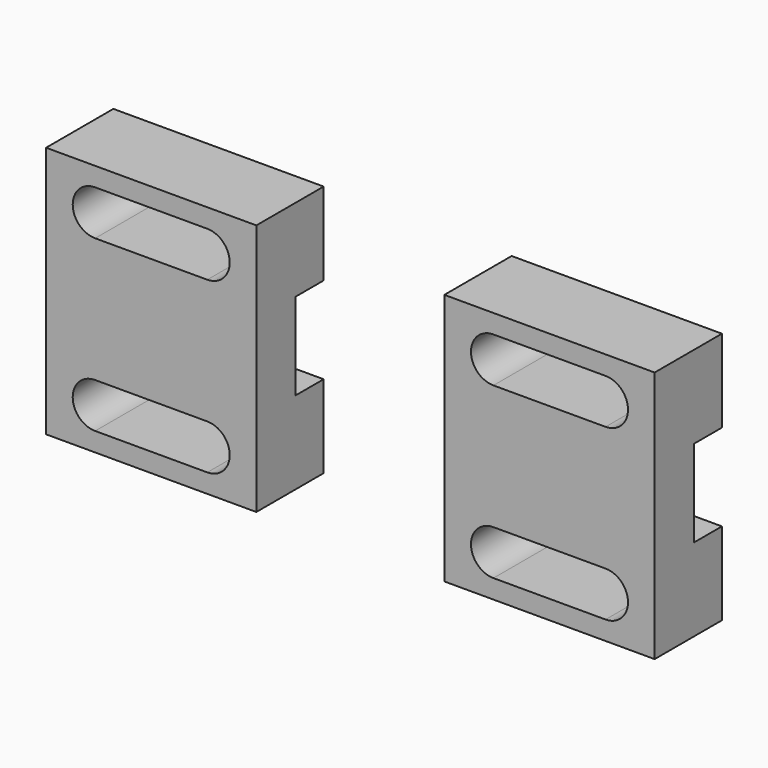
from build123d import *

# Parameters (mm, degrees)
F1_DEPTH      = 3.1
F1_DEPTH_BACK = 3.1
F2_DEPTH      = 3.1
F2_DEPTH_BACK = 3.1
F3_W          = 15
F3_H          = 5.9
F4_DEPTH      = 6
F5_DEPTH      = 6
F7_DEPTH      = 6
F8_DEPTH      = 6


with BuildPart() as f1:
    # F0 (on Top) → F1 (new body, two sides)
    with BuildSketch(Plane.XY) as f1_sk:
        Polygon((-21.705397, 3.5), (-21.705397, 0), (-6.705397, 0), (-6.705397, 2.5), (-6.705397, 3.5), (-7.705397, 3.5), (-7.705397, 2.5), (-8.705397, 2.5), (-8.705397, 3.5), (-9.705397, 3.5), (-9.705397, 2.5), (-10.705397, 2.5), (-10.705397, 3.5), (-11.705397, 3.5), (-11.705397, 2.5), (-12.705397, 2.5), (-12.705397, 3.5), (-13.705397, 3.5), (-13.705397, 2.5), (-14.705397, 2.5), (-14.705397, 3.5), (-15.705397, 3.5), (-15.705397, 2.5), (-16.705397, 2.5), (-16.705397, 3.5), (-17.705397, 3.5), (-17.705397, 2.5), (-18.705397, 2.5), (-18.705397, 3.5), (-19.705397, 3.5), (-19.705397, 2.5), (-20.705397, 2.5), (-20.705397, 3.5), align=None)
    extrude(amount=F1_DEPTH)
    extrude(f1_sk.sketch, amount=-F1_DEPTH_BACK)

    # F3 (on face) → F5 (join)
    with BuildSketch(Plane.XZ):
        with Locations((-14.205397, -6.05)):
            Rectangle(F3_W, F3_H)
        with Locations((-14.205397, 6.05)):
            Rectangle(F3_W, F3_H)
    extrude(amount=-F5_DEPTH)

    # F6 (on face) → F7 (cut, through all)
    with BuildSketch(Plane(origin=(0, 6, 0), x_dir=(-1, 0, 0), z_dir=(0, 1, 0))):
        with BuildLine():
            Line((10.205397, -7.65), (18.205397, -7.65))
            ThreePointArc((18.205397, -7.65), (19.805397, -6.05), (18.205397, -4.45))
            Line((18.205397, -4.45), (10.205397, -4.45))
            ThreePointArc((10.205397, -4.45), (8.605397, -6.05), (10.205397, -7.65))
        make_face()
        with BuildLine():
            Line((10.205397, 4.45), (18.205397, 4.45))
            ThreePointArc((18.205397, 4.45), (19.805397, 6.05), (18.205397, 7.65))
            Line((18.205397, 7.65), (10.205397, 7.65))
            ThreePointArc((10.205397, 7.65), (8.605397, 6.05), (10.205397, 4.45))
        make_face()
    extrude(amount=-F7_DEPTH, mode=Mode.SUBTRACT)


with BuildPart() as f2:
    # F0 (on Top) → F2 (new body, two sides)
    with BuildSketch(Plane.XY) as f2_sk:
        Polygon((10.705397, 2.5), (9.705397, 2.5), (9.705397, 3.5), (8.705397, 3.5), (8.705397, 2.5), (7.705397, 2.5), (7.705397, 3.5), (6.705397, 3.5), (6.705397, 2.5), (6.705397, 0), (21.705397, 0), (21.705397, 3.5), (20.705397, 3.5), (20.705397, 2.5), (19.705397, 2.5), (19.705397, 3.5), (18.705397, 3.5), (18.705397, 2.5), (17.705397, 2.5), (17.705397, 3.5), (16.705397, 3.5), (16.705397, 2.5), (15.705397, 2.5), (15.705397, 3.5), (14.705397, 3.5), (14.705397, 2.5), (13.705397, 2.5), (13.705397, 3.5), (12.705397, 3.5), (12.705397, 2.5), (11.705397, 2.5), (11.705397, 3.5), (10.705397, 3.5), align=None)
    extrude(amount=F2_DEPTH)
    extrude(f2_sk.sketch, amount=-F2_DEPTH_BACK)

    # F3 (on face) → F4 (join)
    with BuildSketch(Plane.XZ):
        with Locations((14.205397, -6.05)):
            Rectangle(F3_W, F3_H)
        with Locations((14.205397, 6.05)):
            Rectangle(F3_W, F3_H)
    extrude(amount=-F4_DEPTH)

    # F6 (on face) → F8 (cut, through all)
    with BuildSketch(Plane(origin=(0, 6, 0), x_dir=(-1, 0, 0), z_dir=(0, 1, 0))):
        with BuildLine():
            ThreePointArc((-10.205397, -7.65), (-8.605397, -6.05), (-10.205397, -4.45))
            Line((-10.205397, -4.45), (-18.205397, -4.45))
            ThreePointArc((-18.205397, -4.45), (-19.805397, -6.05), (-18.205397, -7.65))
            Line((-18.205397, -7.65), (-10.205397, -7.65))
        make_face()
        with BuildLine():
            ThreePointArc((-18.205397, 7.65), (-19.805397, 6.05), (-18.205397, 4.45))
            Line((-18.205397, 4.45), (-10.205397, 4.45))
            ThreePointArc((-10.205397, 4.45), (-8.605397, 6.05), (-10.205397, 7.65))
            Line((-10.205397, 7.65), (-18.205397, 7.65))
        make_face()
    extrude(amount=-F8_DEPTH, mode=Mode.SUBTRACT)


solid = Compound([f1.part, f2.part])
